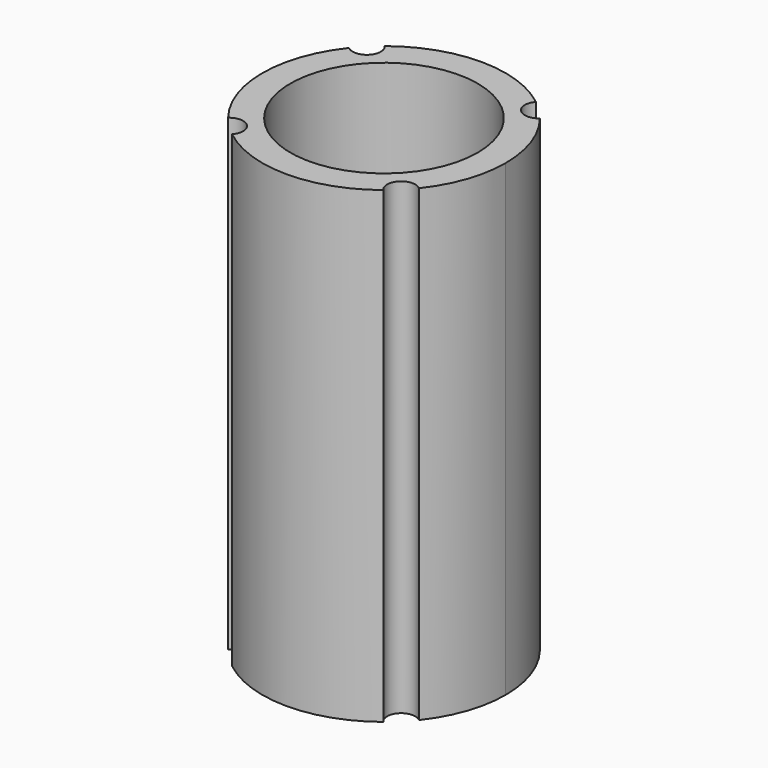
from build123d import *

# Parameters (mm, degrees)
F0_R     = 12.7
F1_DEPTH = 63.5


with BuildPart() as f1:
    # F0 (on Top) → F1 (new body)
    with BuildSketch(Plane.XY):
        with BuildLine():
            ThreePointArc((12.941414, -10.251824), (15.592351, -5.427585), (16.51, 0))
            ThreePointArc((16.51, 0), (15.592351, 5.427585), (12.941414, 10.251824))
            ThreePointArc((12.941414, 10.251824), (10.327295, 10.327295), (10.251824, 12.941414))
            ThreePointArc((10.251824, 12.941414), (0, 16.51), (-10.251824, 12.941414))
            ThreePointArc((-10.251824, 12.941414), (-9.894038, 12.352251), (-9.769333, 11.674333))
            ThreePointArc((-9.769333, 11.674333), (-10.894835, 9.936113), (-12.941414, 10.251824))
            ThreePointArc((-12.941414, 10.251824), (-16.51, 0), (-12.941414, -10.251824))
            ThreePointArc((-12.941414, -10.251824), (-10.894835, -9.936113), (-9.769333, -11.674333))
            ThreePointArc((-9.769333, -11.674333), (-9.894038, -12.352251), (-10.251824, -12.941414))
            ThreePointArc((-10.251824, -12.941414), (0, -16.51), (10.251824, -12.941414))
            ThreePointArc((10.251824, -12.941414), (10.327295, -10.327295), (12.941414, -10.251824))
        make_face()
        Circle(F0_R, mode=Mode.SUBTRACT)
    extrude(amount=F1_DEPTH)


solid = f1.part
